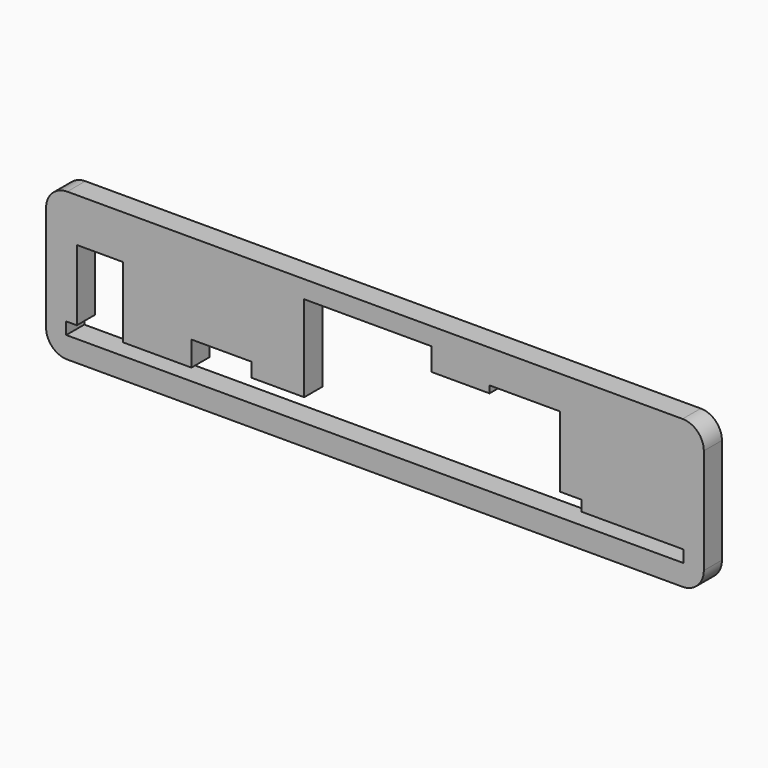
from build123d import *

# Parameters (mm, degrees)
F1_DEPTH = 3.2


with BuildPart() as f1:
    # F0 (on Front) → F1 (new body)
    with BuildSketch(Plane.XZ):
        with BuildLine():
            Line((30.542205, 6.016766), (-56.457795, 6.016766))
            ThreePointArc((-56.457795, 6.016766), (-58.579115, 5.138086), (-59.457795, 3.016766))
            Line((-59.457795, 3.016766), (-59.457795, -11.883234))
            ThreePointArc((-59.457795, -11.883234), (-58.579115, -14.004555), (-56.457795, -14.883234))
            Line((-56.457795, -14.883234), (30.542205, -14.883234))
            ThreePointArc((30.542205, -14.883234), (32.663526, -14.004555), (33.542205, -11.883234))
            Line((33.542205, -11.883234), (33.542205, 3.016766))
            ThreePointArc((33.542205, 3.016766), (32.663526, 5.138086), (30.542205, 6.016766))
        make_face()
        Polygon((13.242205, 1.316766), (13.242205, -8.683234), (16.242205, -8.683234), (16.242205, -10.183234), (30.692205, -10.183234), (30.692205, -11.883234), (-56.607795, -11.883234), (-56.607795, -10.183234), (-55.107795, -10.183234), (-55.107795, -0.183234), (-48.607795, -0.183234), (-48.607795, -10.183234), (-38.907795, -10.183234), (-38.907795, -6.683234), (-30.407795, -6.683234), (-30.407795, -8.683234), (-22.957795, -8.683234), (-22.957795, 3.516766), (-4.957795, 3.516766), (-4.957795, 0.316766), (3.242205, 0.316766), (3.242205, 1.316766), align=None, mode=Mode.SUBTRACT)
    extrude(amount=F1_DEPTH)


solid = f1.part
